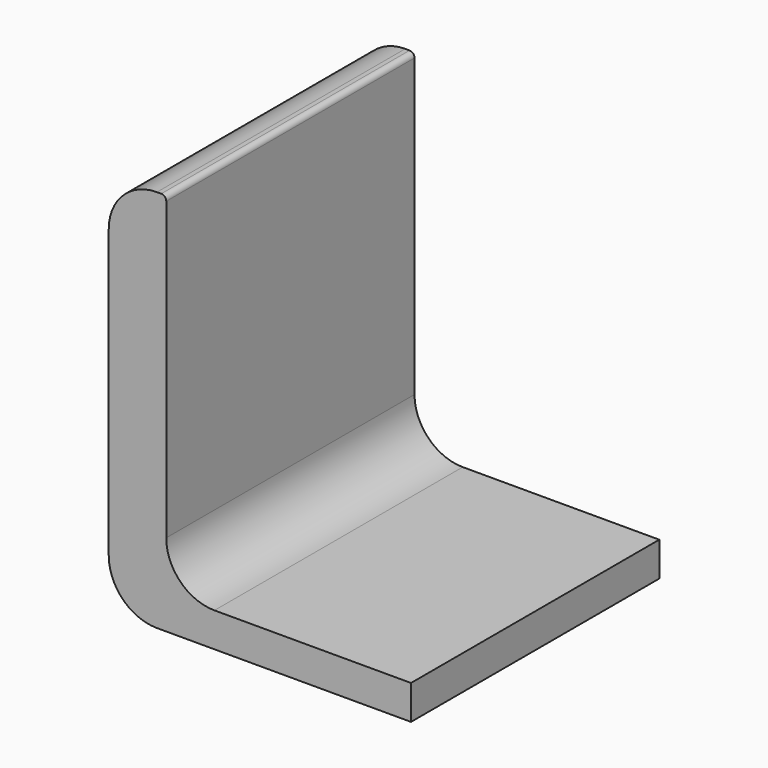
from build123d import *

# Parameters (mm, degrees)
F1_DEPTH = 40.894


with BuildPart() as f1:
    # F0 (on Front) → F1 (new body)
    with BuildSketch(Plane.XZ):
        with BuildLine():
            Line((-26.524263, 21.714916), (-19.820329, 19.740981))
            Line((-19.820329, 19.740981), (-19.820329, 49.912829))
            ThreePointArc((-19.820329, 49.912829), (-20.013098, 50.378215), (-20.478483, 50.570983))
            Line((-20.478483, 50.570983), (-21.048689, 50.570983))
            ThreePointArc((-21.048689, 50.570983), (-25.538817, 48.711112), (-27.398689, 44.220983))
            Line((-27.398689, 44.220983), (-27.398689, 6.35))
            ThreePointArc((-27.398689, 6.35), (-25.538817, 1.859872), (-21.048689, 0))
            Line((-21.048689, 0), (0, 0))
            Line((0, 0), (12.430089, 0))
            Line((12.430089, 0), (12.430089, 4.517869))
            Line((12.430089, 4.517869), (0, 4.517869))
            Line((0, 4.517869), (-13.470329, 4.517869))
            ThreePointArc((-13.470329, 4.517869), (-17.960457, 6.377741), (-19.820329, 10.867869))
            Line((-19.820329, 10.867869), (-19.820329, 15.958715))
            Line((-19.820329, 15.958715), (-26.524263, 17.925737))
            Line((-26.524263, 17.925737), (-26.524263, 21.714916))
        make_face()
        Polygon((-19.820329, 15.958715), (-19.820329, 19.740981), (-26.524263, 21.714916), (-26.524263, 17.925737), align=None)
    extrude(amount=-F1_DEPTH)


solid = f1.part
